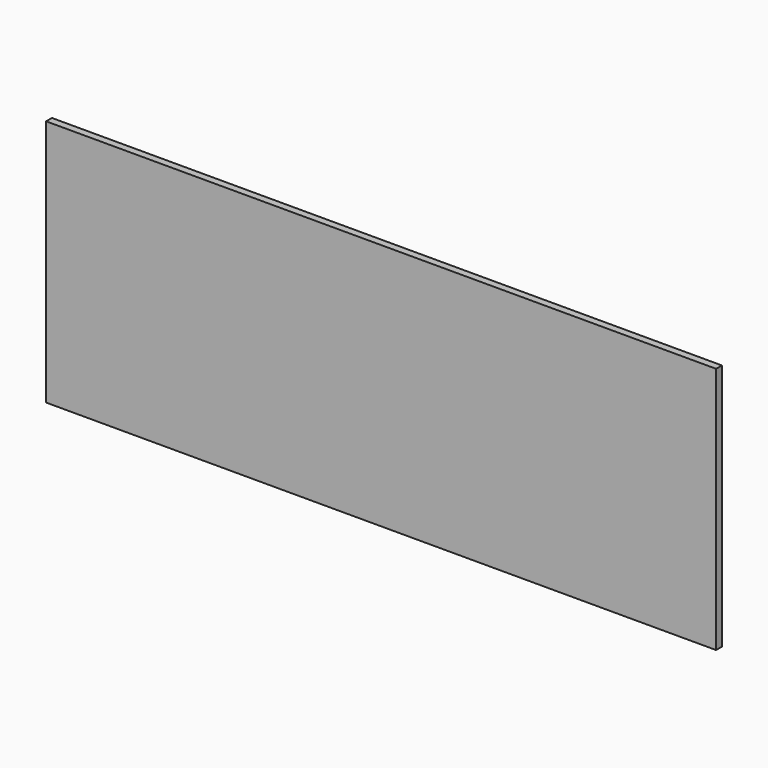
from build123d import *

# Parameters (mm, degrees)
F0_W     = 1500
F0_H     = 850
F0_W_2   = 400
F1_DEPTH = 25


with BuildPart() as f1:
    # F0 (on Front) → F1 (new body)
    with BuildSketch(Plane.XZ):
        with Locations((365.845323, -355)):
            Rectangle(F0_W, F0_H)
        with Locations((-584.154677, -355)):
            Rectangle(F0_W_2, F0_H)
        with Locations((1315.845323, -355)):
            Rectangle(F0_W_2, F0_H)
    extrude(amount=-F1_DEPTH)


solid = f1.part
